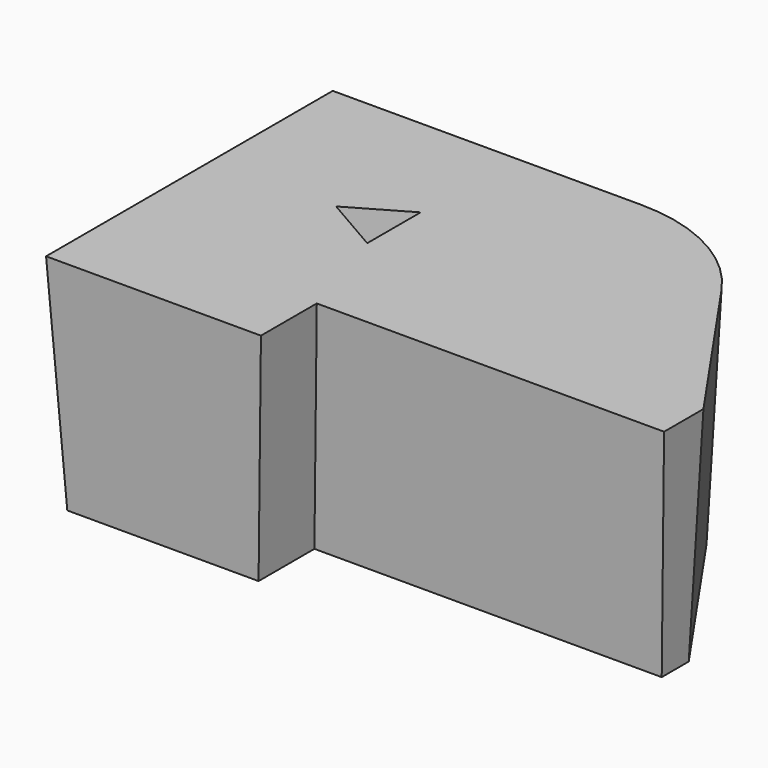
from build123d import *

# Parameters (mm, degrees)
F1_DEPTH = 25
F1_TAPER = -3


with BuildPart() as f1:
    # F0 (on Top) → F1 (new body)
    with BuildSketch(Plane.XY):
        with BuildLine():
            Line((0, 37.2432023287), (0, 0))
            Line((0, 0), (21.2828889489, 0))
            Line((21.2828889489, 0), (21.2828889489, 7.7656218782))
            Line((21.2828889489, 7.7656218782), (59.9214509847, 7.7656218782))
            Line((59.9214509847, 7.7656218782), (59.9214509847, 11.5219417561))
            Line((59.9214509847, 11.5219417561), (47.3587736487, 29.6969991177))
            ThreePointArc((47.3587736487, 29.6969991177), (41.0934229793, 35.2422002817), (32.9693928361, 37.2432023287))
            Line((32.9693928361, 37.2432023287), (0, 37.2432023287))
        make_face()
        Polygon((9.8854769021, 21.7533521354), (20.2467609197, 27.7354422521), (20.2467609197, 15.7712620187), align=None, mode=Mode.SUBTRACT)
    extrude(amount=F1_DEPTH, taper=F1_TAPER)


solid = f1.part
